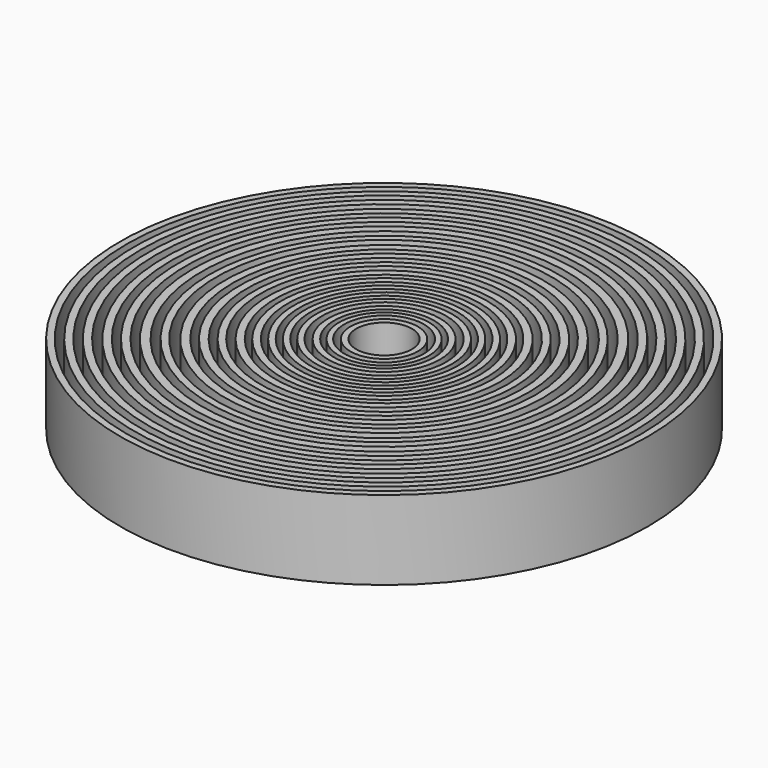
from build123d import *

# Parameters (mm, degrees)
F0_R     = 100
F1_DEPTH = 5
F2_R     = 100
F2_R_2   = 97.451659
F2_R_3   = 94.648736
F2_R_4   = 91.967315
F2_R_5   = 89.150846
F2_R_6   = 86.396715
F2_R_7   = 83.359675
F2_R_8   = 80.564885
F2_R_9   = 77.876548
F2_R_10  = 75.053444
F2_R_11  = 72.252886
F2_R_12  = 69.121186
F2_R_13  = 66.16217
F2_R_14  = 63.570133
F2_R_15  = 60.296805
F2_R_16  = 57.367289
F2_R_17  = 54.797723
F2_R_18  = 51.923775
F2_R_19  = 49.271752
F2_R_20  = 46.728635
F2_R_21  = 43.956422
F2_R_22  = 41.231373
F2_R_23  = 39.032675
F2_R_24  = 36.487368
F2_R_25  = 34.312217
F2_R_26  = 32.074481
F2_R_27  = 29.962907
F2_R_28  = 27.776258
F2_R_29  = 25.70102
F2_R_30  = 23.568539
F2_R_31  = 21.149646
F2_R_32  = 18.92981
F2_R_33  = 17.040575
F2_R_34  = 15.089483
F2_R_35  = 12.77456
F2_R_36  = 10.548498
F3_DEPTH = 25
F4_R     = 18.196703
F5_DEPTH = 5


with BuildPart() as f1:
    # F0 (on Top) → F1 (new body)
    with BuildSketch(Plane.XY):
        Circle(F0_R)
    extrude(amount=F1_DEPTH)

    # F2 (on face) → F3 (join)
    with BuildSketch(Plane.XY.offset(5)):
        Circle(F2_R)
        Circle(F2_R_2, mode=Mode.SUBTRACT)
        Circle(F2_R_3)
        Circle(F2_R_4, mode=Mode.SUBTRACT)
        Circle(F2_R_5)
        Circle(F2_R_6, mode=Mode.SUBTRACT)
        Circle(F2_R_7)
        Circle(F2_R_8, mode=Mode.SUBTRACT)
        Circle(F2_R_9)
        Circle(F2_R_10, mode=Mode.SUBTRACT)
        Circle(F2_R_11)
        Circle(F2_R_12, mode=Mode.SUBTRACT)
        Circle(F2_R_13)
        Circle(F2_R_14, mode=Mode.SUBTRACT)
        Circle(F2_R_15)
        Circle(F2_R_16, mode=Mode.SUBTRACT)
        Circle(F2_R_17)
        Circle(F2_R_18, mode=Mode.SUBTRACT)
        Circle(F2_R_19)
        Circle(F2_R_20, mode=Mode.SUBTRACT)
        Circle(F2_R_21)
        Circle(F2_R_22, mode=Mode.SUBTRACT)
        Circle(F2_R_23)
        Circle(F2_R_24, mode=Mode.SUBTRACT)
        Circle(F2_R_25)
        Circle(F2_R_26, mode=Mode.SUBTRACT)
        Circle(F2_R_27)
        Circle(F2_R_28, mode=Mode.SUBTRACT)
        Circle(F2_R_29)
        Circle(F2_R_30, mode=Mode.SUBTRACT)
        Circle(F2_R_31)
        Circle(F2_R_32, mode=Mode.SUBTRACT)
        Circle(F2_R_33)
        Circle(F2_R_34, mode=Mode.SUBTRACT)
        Circle(F2_R_35)
        Circle(F2_R_36, mode=Mode.SUBTRACT)
    extrude(amount=F3_DEPTH)

    # F4 (on face) → F5 (join)
    with BuildSketch(Plane(origin=(0, 0, 0), x_dir=(1, 0, 0), z_dir=(0, 0, -1))):
        Circle(F4_R)
    extrude(amount=F5_DEPTH)


solid = f1.part
